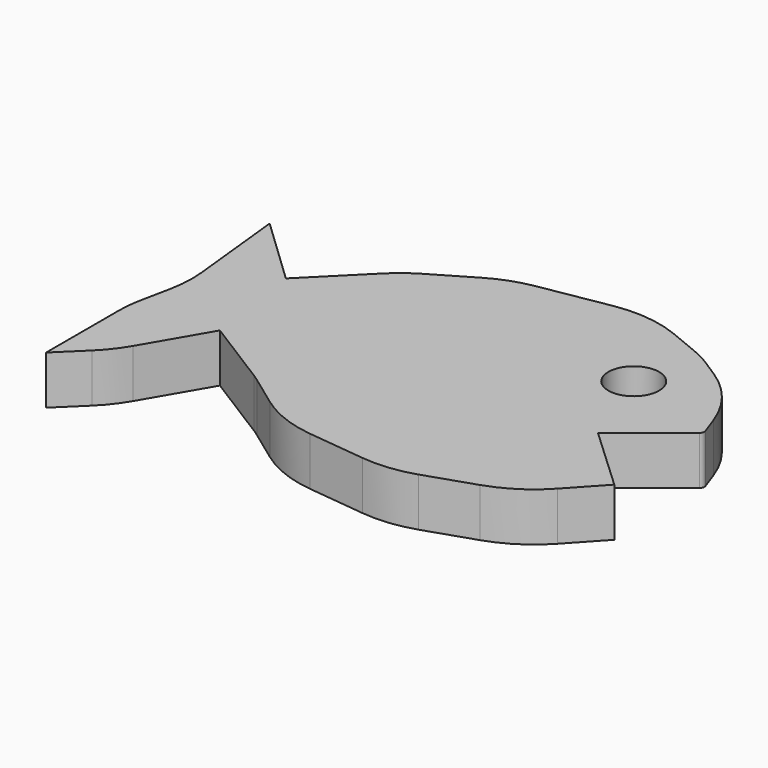
from build123d import *

# Parameters (mm, degrees)
F0_R     = 1.044961
F1_DEPTH = 2


with BuildPart() as f1:
    # F0 (on Top) → F1 (new body)
    with BuildSketch(Plane.XY):
        with BuildLine():
            Line((5.007722, 6.82725), (2.795858, 4.615385))
            Line((2.795858, 4.615385), (0, 7.278107))
            Line((0, 7.278107), (0.423993, 3.249794))
            ThreePointArc((0.423993, 3.249794), (0.445773, 2.488009), (0.351528, 1.731763))
            Line((0.351528, 1.731763), (0.099933, 0.492308))
            ThreePointArc((0.099933, 0.492308), (0.025046, -0.002516), (0, -0.502348))
            Line((0, -0.502348), (0, -4.231373))
            Line((0, -4.231373), (1.057963, -3.201267))
            ThreePointArc((1.057963, -3.201267), (1.511144, -2.695677), (1.89165, -2.133352))
            Line((1.89165, -2.133352), (3.402669, 0.463712))
            Line((3.402669, 0.463712), (6.210531, -1.298084))
            ThreePointArc((6.210531, -1.298084), (6.357115, -1.393674), (6.500264, -1.494334))
            Line((6.500264, -1.494334), (7.757519, -2.411716))
            ThreePointArc((7.757519, -2.411716), (8.894254, -3.033361), (10.15255, -3.342065))
            Line((10.15255, -3.342065), (12.532795, -3.606537))
            ThreePointArc((12.532795, -3.606537), (13.611706, -3.609293), (14.666091, -3.380534))
            Line((14.666091, -3.380534), (16.664257, -2.714479))
            ThreePointArc((16.664257, -2.714479), (17.796263, -2.170925), (18.757136, -1.362462))
            Line((18.757136, -1.362462), (20.014793, 0))
            Line((20.014793, 0), (17.352073, 2.485207))
            Line((17.352073, 2.485207), (19.902285, 4.525379))
            ThreePointArc((19.902285, 4.525379), (19.970428, 4.627975), (19.966333, 4.751071))
            Line((19.966333, 4.751071), (19.69989, 5.497113))
            ThreePointArc((19.69989, 5.497113), (18.906432, 6.925225), (17.694968, 8.021325))
            Line((17.694968, 8.021325), (17.023118, 8.453229))
            ThreePointArc((17.023118, 8.453229), (16.632537, 8.680065), (16.223079, 8.870728))
            Line((16.223079, 8.870728), (14.957098, 9.392014))
            ThreePointArc((14.957098, 9.392014), (13.601922, 9.738439), (12.203814, 9.695924))
            Line((12.203814, 9.695924), (9.375468, 9.208279))
            ThreePointArc((9.375468, 9.208279), (8.504739, 8.97573), (7.689901, 8.590649))
            Line((7.689901, 8.590649), (6.008156, 7.601387))
            ThreePointArc((6.008156, 7.601387), (5.483359, 7.246084), (5.007722, 6.82725))
        make_face()
        with Locations((16.005702, 6.011697)):
            Circle(F0_R, mode=Mode.SUBTRACT)
    extrude(amount=F1_DEPTH)


solid = f1.part
